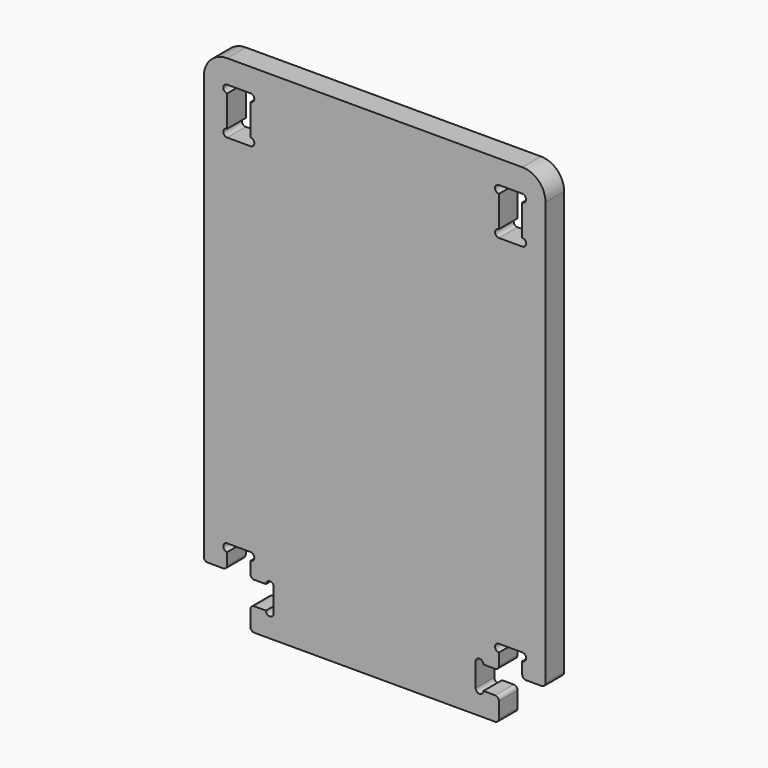
from build123d import *

# Parameters (mm, degrees)
F0_W      = 279.4
F0_H      = 406.4
F1_DEPTH  = 19.05
F2_R      = 19.05
F4_DEPTH  = 19.05
F6_DEPTH  = 19.05
F7_W      = 19.05
F7_H      = 38.1
F8_DEPTH  = 19.05
F10_DEPTH = 19.05
F11_R     = 3.175


with BuildPart() as f1:
    # F0 (on Front) → F1 (new body)
    with BuildSketch(Plane.XZ):
        with Locations((139.7, 203.2)):
            Rectangle(F0_W, F0_H)
    extrude(amount=F1_DEPTH)

    # F2
    f2_edges = [f1.edges().sort_by_distance(p)[0] for p in [
        (0, -9.525, 406.4),
        (279.4, -9.525, 406.4),
    ]]
    fillet(f2_edges, radius=F2_R)

    # F3 (on face) → F4 (cut)
    with BuildSketch(Plane.XZ.offset(19.05)):
        Polygon((0, 0), (38.1, 0), (38.1, 19.05), (57.15, 19.05), (57.15, 38.1), (38.1, 38.1), (38.1, 57.15), (19.05, 57.15), (19.05, 38.1), (0, 38.1), align=None)
        Polygon((241.3, 19.05), (241.3, 0), (279.4, 0), (279.4, 38.1), (260.35, 38.1), (260.35, 57.15), (241.3, 57.15), (241.3, 38.1), (222.25, 38.1), (222.25, 19.05), align=None)
    extrude(amount=-F4_DEPTH, mode=Mode.SUBTRACT)

    # F5 (on face) → F6 (cut)
    with BuildSketch(Plane.XZ.offset(19.05)):
        with BuildLine():
            Line((19.05, 50.8), (19.05, 57.15))
            ThreePointArc((19.05, 57.15), (15.875, 53.975), (19.05, 50.8))
        make_face()
        with BuildLine():
            ThreePointArc((38.1, 50.8), (41.275, 53.975), (38.1, 57.15))
            Line((38.1, 57.15), (38.1, 50.8))
        make_face()
        with BuildLine():
            Line((50.8, 38.1), (57.15, 38.1))
            ThreePointArc((57.15, 38.1), (53.975, 41.275), (50.8, 38.1))
        make_face()
        with BuildLine():
            ThreePointArc((50.8, 19.05), (53.975, 15.875), (57.15, 19.05))
            Line((57.15, 19.05), (50.8, 19.05))
        make_face()
        with BuildLine():
            Line((228.6, 19.05), (222.25, 19.05))
            ThreePointArc((222.25, 19.05), (225.425, 15.875), (228.6, 19.05))
        make_face()
        with BuildLine():
            ThreePointArc((228.6, 38.1), (225.425, 41.275), (222.25, 38.1))
            Line((222.25, 38.1), (228.6, 38.1))
        make_face()
        with BuildLine():
            Line((241.3, 50.8), (241.3, 57.15))
            ThreePointArc((241.3, 57.15), (238.125, 53.975), (241.3, 50.8))
        make_face()
        with BuildLine():
            ThreePointArc((260.35, 50.8), (263.525, 53.975), (260.35, 57.15))
            Line((260.35, 57.15), (260.35, 50.8))
        make_face()
    extrude(amount=-F6_DEPTH, mode=Mode.SUBTRACT)

    # F7 (on face) → F8 (cut)
    with BuildSketch(Plane.XZ.offset(19.05)):
        with Locations((28.575, 368.3)):
            Rectangle(F7_W, F7_H)
        with Locations((250.825, 368.3)):
            Rectangle(F7_W, F7_H)
    extrude(amount=-F8_DEPTH, mode=Mode.SUBTRACT)

    # F9 (on face) → F10 (cut)
    with BuildSketch(Plane.XZ.offset(19.05)):
        with BuildLine():
            Line((19.05, 381), (19.05, 387.35))
            ThreePointArc((19.05, 387.35), (15.875, 384.175), (19.05, 381))
        make_face()
        with BuildLine():
            ThreePointArc((19.05, 355.6), (15.875, 352.425), (19.05, 349.25))
            Line((19.05, 349.25), (19.05, 355.6))
        make_face()
        with BuildLine():
            Line((38.1, 355.6), (38.1, 349.25))
            ThreePointArc((38.1, 349.25), (41.275, 352.425), (38.1, 355.6))
        make_face()
        with BuildLine():
            ThreePointArc((38.1, 381), (41.275, 384.175), (38.1, 387.35))
            Line((38.1, 387.35), (38.1, 381))
        make_face()
        with BuildLine():
            Line((241.3, 381), (241.3, 387.35))
            ThreePointArc((241.3, 387.35), (238.125, 384.175), (241.3, 381))
        make_face()
        with BuildLine():
            ThreePointArc((260.35, 381), (263.525, 384.175), (260.35, 387.35))
            Line((260.35, 387.35), (260.35, 381))
        make_face()
        with BuildLine():
            ThreePointArc((241.3, 355.6), (238.125, 352.425), (241.3, 349.25))
            Line((241.3, 349.25), (241.3, 355.6))
        make_face()
        with BuildLine():
            Line((260.35, 355.6), (260.35, 349.25))
            ThreePointArc((260.35, 349.25), (263.525, 352.425), (260.35, 355.6))
        make_face()
    extrude(amount=-F10_DEPTH, mode=Mode.SUBTRACT)

    # F11
    f11_edges = [f1.edges().sort_by_distance(p)[0] for p in [
        (0, -9.525, 38.1),
        (19.05, -9.525, 38.1),
        (38.1, -9.525, 38.1),
        (38.1, -9.525, 0),
        (241.3, -9.525, 0),
        (241.3, -9.525, 19.05),
        (241.3, -9.525, 38.1),
        (260.35, -9.525, 38.1),
        (279.4, -9.525, 38.1),
        (38.1, -9.525, 19.05),
    ]]
    fillet(f11_edges, radius=F11_R)


solid = f1.part
